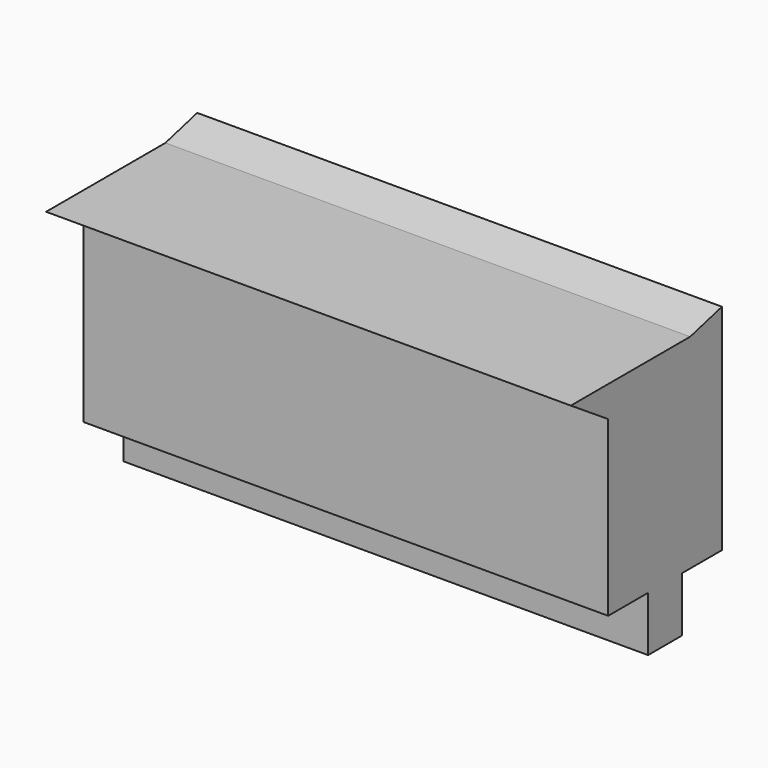
from build123d import *

# Parameters (mm, degrees)
F1_DEPTH = 77.724


with BuildPart() as f1:
    # F0 (on Right) → F1 (new body, symmetric)
    with BuildSketch(Plane.YZ):
        Polygon((-6.2865, -39.878), (6.2865, -39.878), (6.2865, -23.622), (21.0566, -23.622), (21.0566, 36.83), (21.0566, 39.878), (9.2964, 36.83), (-34.8996, 36.83), (-21.0566, 27.686), (-21.0566, -23.622), (-6.2865, -23.622), align=None)
    extrude(amount=F1_DEPTH, both=True)


solid = f1.part
